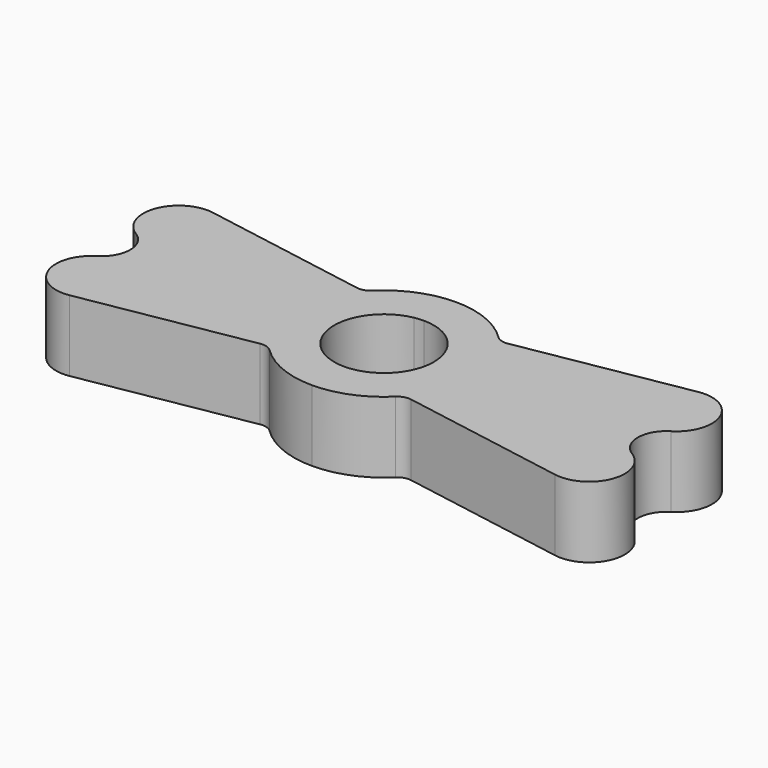
from build123d import *

# Parameters (mm, degrees)
F1_DEPTH = 19.05


with BuildPart() as f1:
    # F0 (on Top) → F1 (new body)
    with BuildSketch(Plane.XY):
        with BuildLine():
            ThreePointArc((83.559724, 2.633417), (75.793495, 7.735769), (66.675, 9.525))
            Line((66.675, 9.525), (66.675, -1.27))
            ThreePointArc((66.675, -1.27), (76.104269, -5.175731), (80.01, -14.605))
            ThreePointArc((80.01, -14.605), (76.104269, -24.034269), (66.675, -27.94))
            Line((66.675, -27.94), (66.675, -38.735))
            ThreePointArc((66.675, -38.735), (75.793495, -36.945769), (83.559724, -31.843417))
            ThreePointArc((83.559724, -31.843417), (85.094013, -30.927235), (86.877272, -30.811394))
            Line((86.877272, -30.811394), (131.721152, -38.594694))
            ThreePointArc((131.721152, -38.594694), (142.259142, -32.579394), (138.339031, -21.096111))
            ThreePointArc((138.339031, -21.096111), (134.710256, -14.605), (138.339031, -8.113889))
            ThreePointArc((138.339031, -8.113889), (142.259142, 3.369394), (131.721152, 9.384694))
            Line((131.721152, 9.384694), (86.877272, 1.601394))
            ThreePointArc((86.877272, 1.601394), (85.094013, 1.717235), (83.559724, 2.633417))
        make_face()
        with BuildLine():
            Line((46.472728, 1.601394), (1.628848, 9.384694))
            ThreePointArc((1.628848, 9.384694), (-8.909142, 3.369394), (-4.989031, -8.113889))
            ThreePointArc((-4.989031, -8.113889), (-1.360256, -14.605), (-4.989031, -21.096111))
            ThreePointArc((-4.989031, -21.096111), (-8.909142, -32.579394), (1.628848, -38.594694))
            Line((1.628848, -38.594694), (46.472728, -30.811394))
            ThreePointArc((46.472728, -30.811394), (48.255987, -30.927235), (49.790276, -31.843417))
            ThreePointArc((49.790276, -31.843417), (57.556505, -36.945769), (66.675, -38.735))
            Line((66.675, -38.735), (66.675, -27.94))
            ThreePointArc((66.675, -27.94), (65.469085, -27.885361), (64.273052, -27.721893))
            ThreePointArc((64.273052, -27.721893), (53.34, -14.605), (64.273052, -1.488107))
            ThreePointArc((64.273052, -1.488107), (65.469085, -1.324639), (66.675, -1.27))
            Line((66.675, -1.27), (66.675, 9.525))
            ThreePointArc((66.675, 9.525), (57.556505, 7.735769), (49.790276, 2.633417))
            ThreePointArc((49.790276, 2.633417), (48.255987, 1.717235), (46.472728, 1.601394))
        make_face()
    extrude(amount=F1_DEPTH)


solid = f1.part
